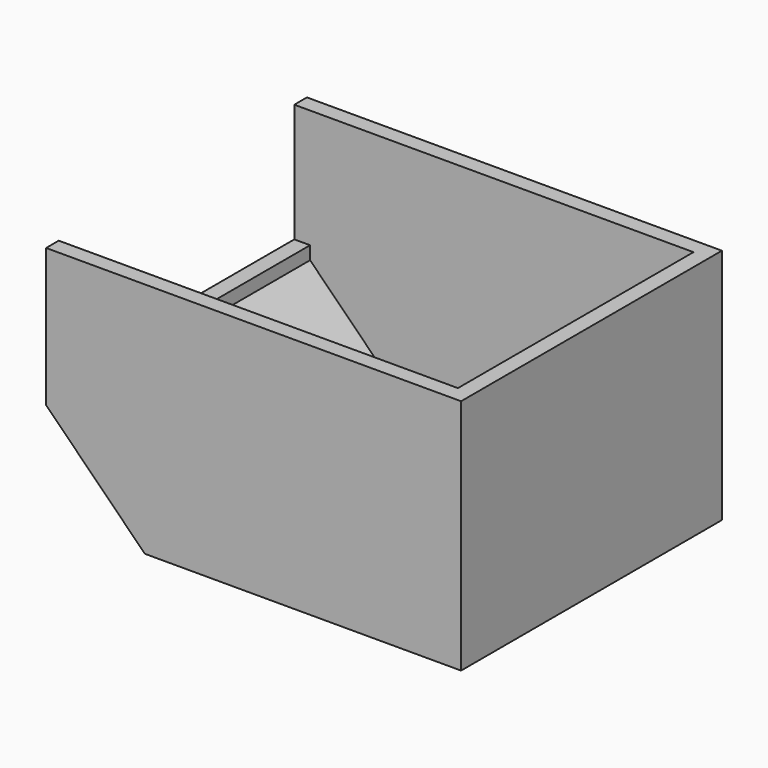
from build123d import *

# Parameters (mm, degrees)
F0_W     = 133.35
F0_H     = 104.775
F1_DEPTH = 76.2
F2_SIZE  = 31.75
F3_T     = -5.08
F4_W     = 94.615
F4_H     = 38.1
F5_DEPTH = 25.4


with BuildPart() as f1:
    # F0 (on Top) → F1 (new body)
    with BuildSketch(Plane.XY):
        with Locations((66.675, 52.3875)):
            Rectangle(F0_W, F0_H)
    extrude(amount=F1_DEPTH)

    # F2
    f2_edges = [f1.edges().sort_by_distance(p)[0] for p in [
        (0, 52.3875, 0),
    ]]
    chamfer(f2_edges, length=F2_SIZE)

    # F3
    f3_openings = [f1.faces().sort_by_distance(p)[0] for p in [
        (66.675, 52.3875, 76.2),
    ]]
    offset(amount=F3_T, openings=f3_openings)

    # F4 (on face) → F5 (cut)
    with BuildSketch(Plane.YZ.offset(5.08)):
        with Locations((52.3875, 57.15)):
            Rectangle(F4_W, F4_H)
    extrude(amount=-F5_DEPTH, mode=Mode.SUBTRACT)


solid = f1.part
